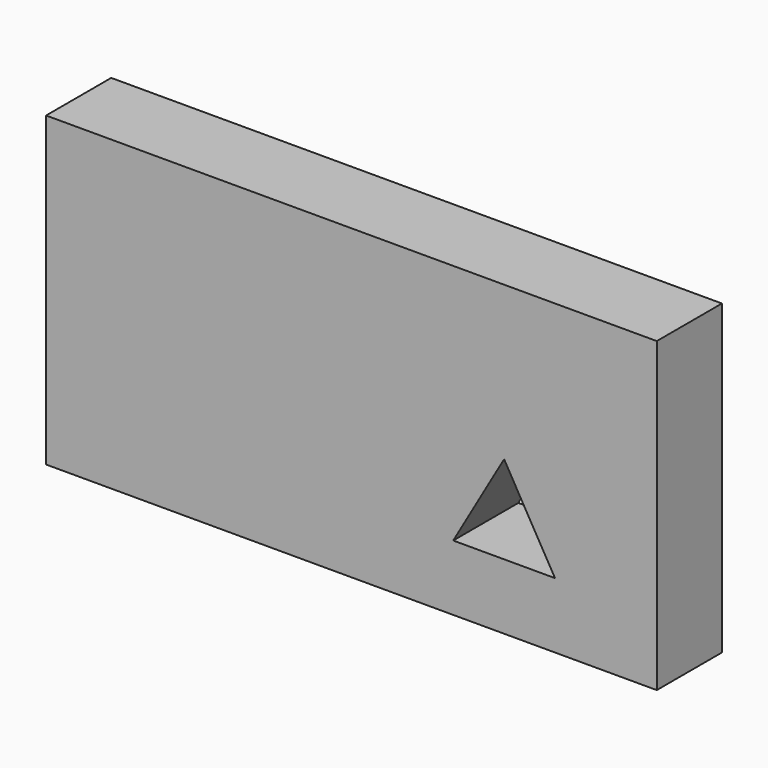
from build123d import *

# Parameters (mm, degrees)
F0_W     = 152.4
F0_H     = 76.682098
F0_R     = 12.7
F1_DEPTH = 20.32
F2_DEPTH = 52.07


with BuildPart() as f1:
    # F0 (on Front) → F1 (new body)
    with BuildSketch(Plane.XZ):
        with Locations((-31.75, 0)):
            Rectangle(F0_W, F0_H)
        Polygon((-6.35, -21.997045), (6.35, 0), (19.05, -21.997045), align=None, mode=Mode.SUBTRACT)
        with Locations((-82.55, 0)):
            Circle(F0_R, mode=Mode.SUBTRACT)
        Polygon((-22.225, 9.525), (-22.225, 0), (-22.225, -9.525), (-41.275, -9.525), (-41.275, 0), (-41.275, 9.525), align=None, mode=Mode.SUBTRACT)
    extrude(amount=-F1_DEPTH)

    # F0 (on Front) → F2 (join)
    with BuildSketch(Plane.XZ):
        Polygon((-22.225, -9.525), (-22.225, 0), (-31.75, 0), (-41.275, 0), (-41.275, -9.525), align=None)
        Polygon((-31.75, 0), (-22.225, 0), (-22.225, 9.525), (-41.275, 9.525), (-41.275, 0), align=None)
        with Locations((-82.55, 0)):
            Circle(F0_R)
    extrude(amount=-F2_DEPTH)


solid = f1.part
